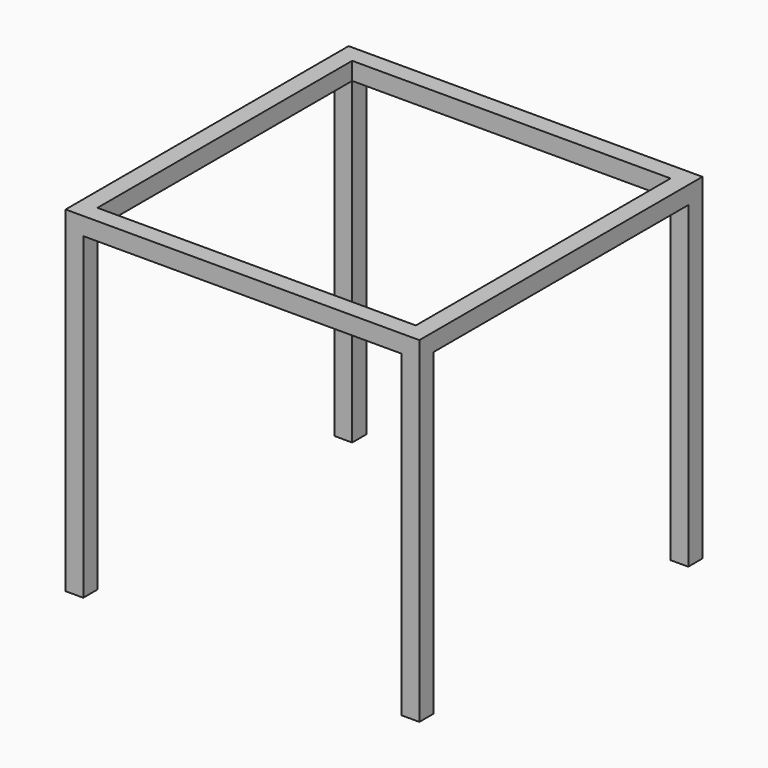
from build123d import *

# Parameters (mm, degrees)
F0_W     = 5.08
F0_H     = 5.08
F0_H_2   = 91.44
F0_W_2   = 91.44
F1_DEPTH = 5.08
F2_DEPTH = 96.52


with BuildPart() as f1:
    # F0 (on Top) → F1 (new body)
    with BuildSketch(Plane.XY):
        with Locations((48.26, 48.26)):
            Rectangle(F0_W, F0_H)
        with Locations((48.26, 0)):
            Rectangle(F0_W, F0_H_2)
        with Locations((0, -48.26)):
            Rectangle(F0_W_2, F0_H)
        with Locations((-48.26, 48.26)):
            Rectangle(F0_W, F0_H)
        with Locations((0, 48.26)):
            Rectangle(F0_W_2, F0_H)
        with Locations((48.26, -48.26)):
            Rectangle(F0_W, F0_H)
        with Locations((-48.26, -48.26)):
            Rectangle(F0_W, F0_H)
        with Locations((-48.26, 0)):
            Rectangle(F0_W, F0_H_2)
    extrude(amount=-F1_DEPTH)

    # F0 (on Top) → F2 (join)
    with BuildSketch(Plane.XY):
        with Locations((-48.26, -48.26)):
            Rectangle(F0_W, F0_H)
        with Locations((48.26, 48.26)):
            Rectangle(F0_W, F0_H)
        with Locations((48.26, -48.26)):
            Rectangle(F0_W, F0_H)
        with Locations((-48.26, 48.26)):
            Rectangle(F0_W, F0_H)
    extrude(amount=-F2_DEPTH)


solid = f1.part
